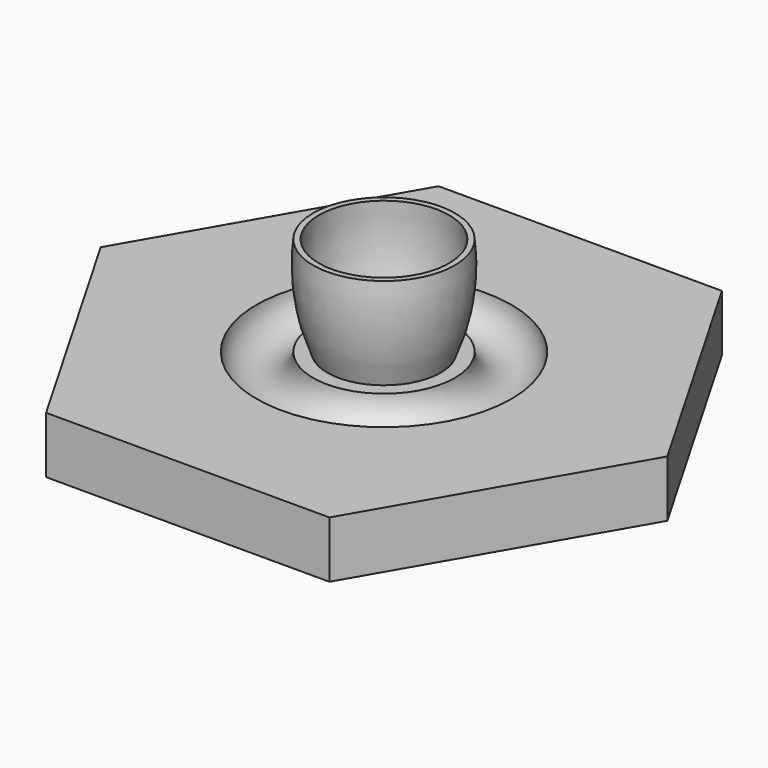
from build123d import *

# Parameters (mm, degrees)
PAD_DEPTH   = 20
SKETCH002_R = 10


with BuildPart() as part:
    # Sketch → Pad (new body)
    with BuildSketch(Plane.XY):
        Polygon((100, 0), (50, 86.60254), (-50, 86.60254), (-100, 0), (-50, -86.60254), (50, -86.60254), align=None)
    extrude(amount=PAD_DEPTH)

    # Sketch001 → Revolution (revolve)
    with BuildSketch(Plane.XZ):
        with BuildLine():
            ThreePointArc((-25, 55), (-24.74611, 37.179127), (-20, 20))
            Line((-20, 20), (-18, 20))
            ThreePointArc((-23, 55), (-22.74611, 37.179127), (-18, 20))
            Line((-25, 55), (-23, 55))
        make_face()
    revolve(axis=Axis((0, 0, 0), (0, 0, 1)))

    # Sketch002 → Groove (revolve, cut)
    with BuildSketch(Plane.XZ):
        with Locations((35, 20)):
            Circle(SKETCH002_R)
    revolve(axis=Axis((0, 0, 0), (0, 0, 1)), mode=Mode.SUBTRACT)


solid = part.part
